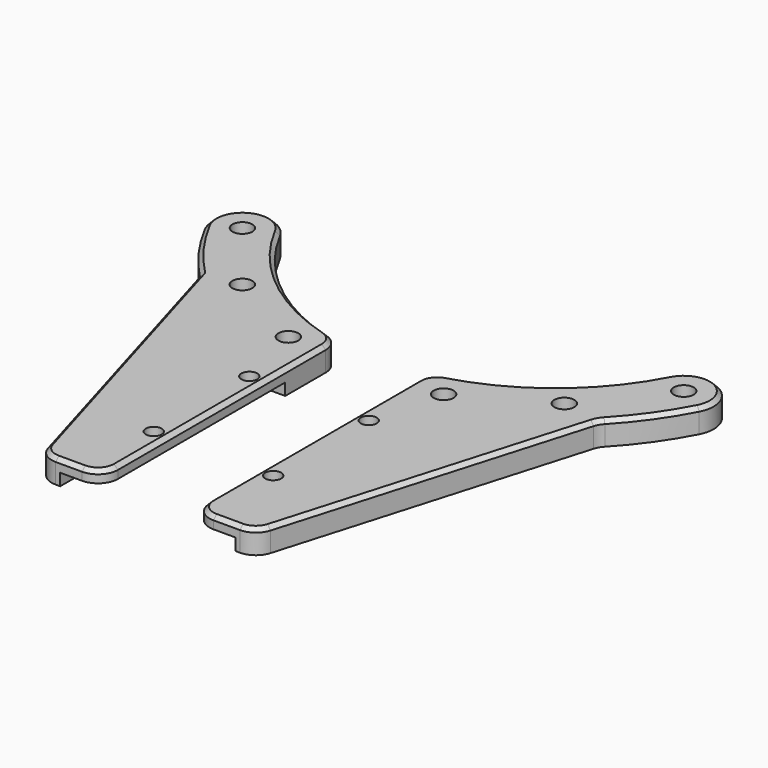
from build123d import *

# Parameters (mm, degrees)
F0_R      = 2
F0_R_2    = 2.5
F1_DEPTH  = 6
F2_R      = 5
F2_2_R    = 5
F3_SIZE   = 1
F3_2_SIZE = 1
F4_W      = 44
F4_H      = 80
F5_DEPTH  = 3
F6_R      = 5
F6_2_R    = 5


with BuildPart() as f1:
    # F0 (on Top) → F1 (new body)
    with BuildSketch(Plane.XY):
        with BuildLine():
            ThreePointArc((-48.7669224449, -25.4320128037), (-58.8849590698, -22.2499796708), (-62.0669922027, -32.3680162957))
            ThreePointArc((-62.0669922027, -32.3680162957), (-56.6822265111, -41.0746296118), (-50.0851457895, -48.9027419604))
            Line((-50.0851457895, -48.9027419604), (-26.8898074388, -127.8929053375))
            Line((-26.8898074388, -127.8929053375), (-11.5, -127.8929053375))
            Line((-11.5, -127.8929053375), (-11.5, -69.0488957189))
            Line((-11.5, -69.0488957189), (-11.5, -53.784291387))
            ThreePointArc((-11.5, -53.784291387), (-33.3014776018, -43.7722696412), (-48.7669224449, -25.4320128037))
        make_face()
        with Locations((-15, -107.2572916746)):
            Circle(F0_R, mode=Mode.SUBTRACT)
        with Locations((-15, -77.2572916746)):
            Circle(F0_R, mode=Mode.SUBTRACT)
        with Locations((-19.5, -59.3801313572)):
            Circle(F0_R_2, mode=Mode.SUBTRACT)
        with Locations((-40.4400420847, -47.6534678296)):
            Circle(F0_R_2, mode=Mode.SUBTRACT)
        with Locations((-55.4169573238, -28.9000145497)):
            Circle(F0_R_2, mode=Mode.SUBTRACT)
    extrude(amount=F1_DEPTH)

    # F2
    f2_edges = [f1.edges().sort_by_distance(p)[0] for p in [
        (-26.889807, -127.892905, 3),
        (-11.5, -127.892905, 3),
        (-11.5, -53.784291, 3),
    ]]
    fillet(f2_edges, radius=F2_R)

    # F3
    f3_edges = [f1.edges().sort_by_distance(p)[0] for p in [
        (-12.964466, -126.428439, 6),
    ]]
    chamfer(f3_edges, length=F3_SIZE)


with BuildPart() as f1b:
    # F0 (on Top) → F1, piece 2 (new body)
    with BuildSketch(Plane.XY):
        with BuildLine():
            Line((11.5, -69.0488957189), (11.5, -127.8929053375))
            Line((11.5, -127.8929053375), (26.8898074388, -127.8929053375))
            Line((26.8898074388, -127.8929053375), (50.0851457895, -48.9027419604))
            ThreePointArc((50.0851457895, -48.9027419604), (56.6822265111, -41.0746296118), (62.0669922027, -32.3680162957))
            ThreePointArc((62.0669922027, -32.3680162957), (58.8849590698, -22.2499796708), (48.7669224449, -25.4320128037))
            ThreePointArc((48.7669224449, -25.4320128037), (33.3014776018, -43.7722696412), (11.5, -53.784291387))
            Line((11.5, -53.784291387), (11.5, -69.0488957189))
        make_face()
        with Locations((15, -107.2572916746)):
            Circle(F0_R, mode=Mode.SUBTRACT)
        with Locations((15, -77.2572916746)):
            Circle(F0_R, mode=Mode.SUBTRACT)
        with Locations((19.5, -59.3801313572)):
            Circle(F0_R_2, mode=Mode.SUBTRACT)
        with Locations((40.4400420847, -47.6534678296)):
            Circle(F0_R_2, mode=Mode.SUBTRACT)
        with Locations((55.4169573238, -28.9000145497)):
            Circle(F0_R_2, mode=Mode.SUBTRACT)
    extrude(amount=F1_DEPTH)

    # F2#2
    f2_2_edges = [f1b.edges().sort_by_distance(p)[0] for p in [
        (11.5, -53.784291, 3),
        (11.5, -127.892905, 3),
        (26.889807, -127.892905, 3),
        (50.085146, -48.902742, 3),
    ]]
    fillet(f2_2_edges, radius=F2_2_R)

    # F3#2
    f3_2_edges = [f1b.edges().sort_by_distance(p)[0] for p in [
        (11.5, -90.289779, 6),
    ]]
    chamfer(f3_2_edges, length=F3_2_SIZE)


with BuildPart() as f5_tool:
    # F4 (on face) → F5 (new body)
    with BuildSketch(Plane(origin=(0, 0, 0), x_dir=(1, 0, 0), z_dir=(0, 0, -1))):
        with Locations((0, 110.3623062372)):
            Rectangle(F4_W, F4_H)
    extrude(amount=-F5_DEPTH)


with BuildPart() as f1_1:
    add(f1.part)

    # F5: cut by f5_tool
    add(f5_tool.part, mode=Mode.SUBTRACT)

    # F6#2
    f6_2_edges = [f1_1.edges().sort_by_distance(p)[0] for p in [
        (-22, -70.362306, 1.5),
    ]]
    fillet(f6_2_edges, radius=F6_2_R)


with BuildPart() as f1b_1:
    add(f1b.part)

    # F5: cut by f5_tool
    add(f5_tool.part, mode=Mode.SUBTRACT)

    # F6
    f6_edges = [f1b_1.edges().sort_by_distance(p)[0] for p in [
        (22, -70.362306, 1.5),
    ]]
    fillet(f6_edges, radius=F6_R)


solid = Compound([f1_1.part, f1b_1.part])
